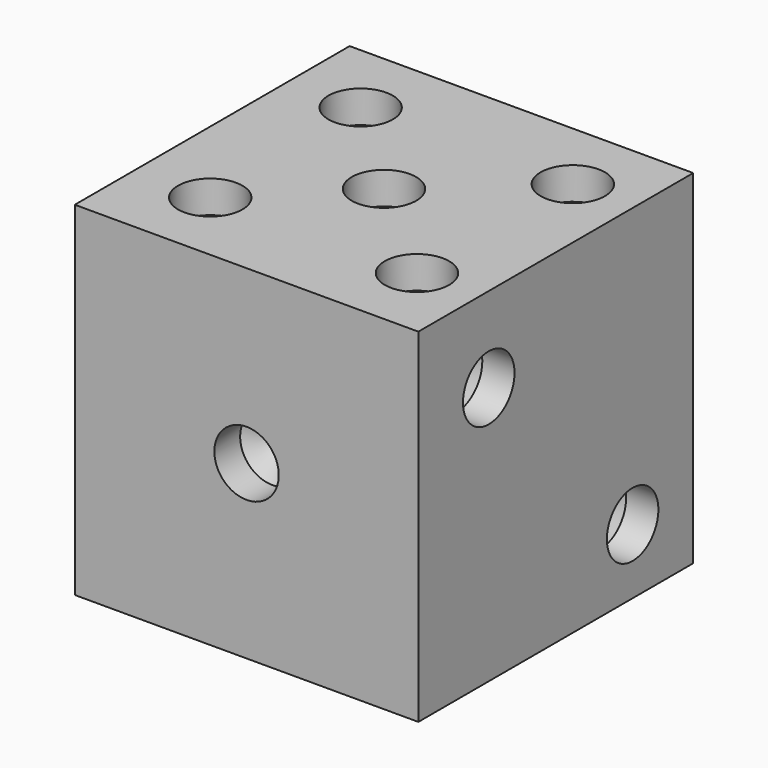
from build123d import *

# Parameters (mm, degrees)
F0_W      = 25.4
F0_H      = 25.4
F1_DEPTH  = 12.7
F3_D      = 4.7625
F3_DEPTH  = 2.38125
F3_TIP    = 1.4307993491
F5_D      = 4.7625
F5_DEPTH  = 2.38125
F5_TIP    = 1.4307993491
F7_D      = 4.7625
F7_DEPTH  = 2.38125
F7_TIP    = 1.4307993491
F9_D      = 4.7625
F9_DEPTH  = 2.38125
F9_TIP    = 1.4307993491
F11_D     = 4.7625
F11_DEPTH = 2.38125
F11_TIP   = 1.4307993491
F13_D     = 4.7625
F13_DEPTH = 2.38125
F13_TIP   = 1.4307993491


with BuildPart() as f1:
    # F0 (on Front) → F1 (new body, symmetric)
    with BuildSketch(Plane.XZ):
        Rectangle(F0_W, F0_H)
    extrude(amount=F1_DEPTH, both=True)

    # F3
    with Locations(Plane.XZ.offset(12.7)):
        with Locations((0, 0)):
            Hole(F3_D / 2, depth=F3_DEPTH)
            with Locations((0, 0, -(F3_DEPTH + F3_TIP / 2))):  # 118° drill point
                Cone(0, F3_D / 2, F3_TIP, mode=Mode.SUBTRACT)

    # F5
    with Locations(Plane(origin=(-12.7, 0, 0), x_dir=(0, -1, 0), z_dir=(-1, 0, 0))):
        with Locations((-6.52840361, 7.4896160513), (-6.4447931945, -7.393008098), (7.3508974165, 7.4060056359), (7.6853386126, -7.5602289289)):
            Hole(F5_D / 2, depth=F5_DEPTH)
            with Locations((0, 0, -(F5_DEPTH + F5_TIP / 2))):  # 118° drill point
                Cone(0, F5_D / 2, F5_TIP, mode=Mode.SUBTRACT)

    # F7
    with Locations(Plane(origin=(0, 12.7, 0), x_dir=(-1, 0, 0), z_dir=(0, 1, 0))):
        with Locations((-6.7792343907, 7.0715649053), (0, 0), (6.7656259052, -7.5602289289)):
            Hole(F7_D / 2, depth=F7_DEPTH)
            with Locations((0, 0, -(F7_DEPTH + F7_TIP / 2))):  # 118° drill point
                Cone(0, F7_D / 2, F7_TIP, mode=Mode.SUBTRACT)

    # F9
    with Locations(Plane.YZ.offset(12.7)):
        with Locations((-6.1939624138, 6.4026829787), (7.1000671014, -7.8946696594)):
            Hole(F9_D / 2, depth=F9_DEPTH)
            with Locations((0, 0, -(F9_DEPTH + F9_TIP / 2))):  # 118° drill point
                Cone(0, F9_D / 2, F9_TIP, mode=Mode.SUBTRACT)

    # F11
    with Locations(Plane.XY.offset(12.7)):
        with Locations((-7.1551753208, -7.1136751212), (0, 0), (8.1454999745, 7.2672874667), (-7.4060056359, 7.1000671014), (8.061889559, -7.0300651714)):
            Hole(F11_D / 2, depth=F11_DEPTH)
            with Locations((0, 0, -(F11_DEPTH + F11_TIP / 2))):  # 118° drill point
                Cone(0, F11_D / 2, F11_TIP, mode=Mode.SUBTRACT)

    # F13
    with Locations(Plane(origin=(0, 0, -12.7), x_dir=(1, 0, 0), z_dir=(0, 0, -1))):
        with Locations((7.4060056359, 6.7792343907), (7.4060056359, -6.0967435129), (0, -6.2639648095), (0, 6.6956239752), (-7.8946696594, 6.7792343907), (-7.8946696594, -6.0967435129)):
            Hole(F13_D / 2, depth=F13_DEPTH)
            with Locations((0, 0, -(F13_DEPTH + F13_TIP / 2))):  # 118° drill point
                Cone(0, F13_D / 2, F13_TIP, mode=Mode.SUBTRACT)


solid = f1.part
